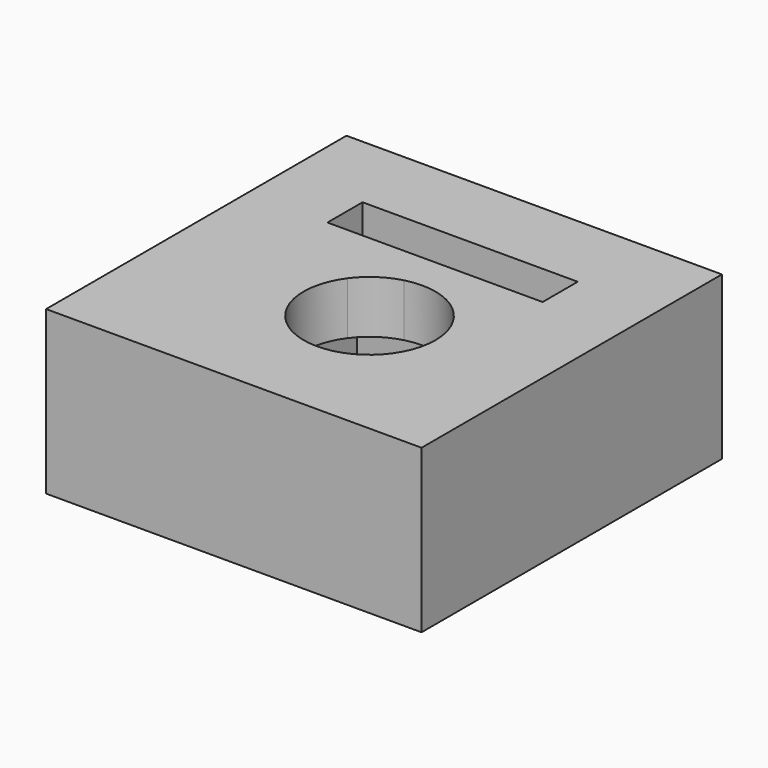
from build123d import *

# Parameters (mm, degrees)
F1_DEPTH = 5
F2_DEPTH = 2.4


with BuildPart() as f1:
    # F0 (on Top) → F1 (new body)
    with BuildSketch(Plane.XY):
        with BuildLine():
            Line((-8.2229121849, -7), (8.8770878151, -7))
            Line((8.8770878151, -7), (8.8770878151, -4.5))
            Line((8.8770878151, -4.5), (8.8770878151, 1.55))
            Line((8.8770878151, 1.55), (6.4270878151, 1.55))
            Line((6.4270878151, 1.55), (6.4270878151, -4.55))
            Line((6.4270878151, -4.55), (3.9714117296, -4.55))
            ThreePointArc((3.9714117296, -4.55), (1.0867994279, -5.4234526619), (-1.7978128738, -4.55))
            Line((-1.7978128738, -4.55), (-5.7729121849, -4.55))
            Line((-5.7729121849, -4.55), (-5.7729121849, 1.55))
            Line((-5.7729121849, 1.55), (-8.2229121849, 1.55))
            Line((-8.2229121849, 1.55), (-8.2229121849, -7))
        make_face()
        Polygon((-8.2229121849, 10.1), (-8.2229121849, 1.55), (-5.7729121849, 1.55), (-5.7729121849, 7.65), (6.4270878151, 7.65), (6.4270878151, 1.55), (8.8770878151, 1.55), (8.8770878151, 7.6), (8.8770878151, 10.1), align=None)
        with BuildLine():
            Line((3.9714117296, -4.55), (-1.7978128738, -4.55))
            ThreePointArc((-1.7978128738, -4.55), (1.0867994279, -5.4234526619), (3.9714117296, -4.55))
        make_face()
    extrude(amount=-F1_DEPTH)

    # F0 (on Top) → F2 (join)
    with BuildSketch(Plane.XY):
        Polygon((-8.2229121849, 10.1), (-8.2229121849, 1.55), (-5.7729121849, 1.55), (-5.7729121849, 7.65), (6.4270878151, 7.65), (6.4270878151, 1.55), (8.8770878151, 1.55), (8.8770878151, 7.6), (8.8770878151, 10.1), align=None)
        with BuildLine():
            Line((-5.7729121849, 7.65), (-5.7729121849, 1.55))
            Line((-5.7729121849, 1.55), (-3.8014380516, 1.55))
            ThreePointArc((-3.8014380516, 1.55), (-2.776349623, 3.2573632497), (-1.1846618734, 4.4542031139))
            Line((-1.1846618734, 4.4542031139), (-4.5729121849, 4.4542031139))
            Line((-4.5729121849, 4.4542031139), (-4.5729121849, 6.4542031139))
            Line((-4.5729121849, 6.4542031139), (5.2270878151, 6.4542031139))
            Line((5.2270878151, 6.4542031139), (5.2270878151, 4.4542031139))
            Line((5.2270878151, 4.4542031139), (3.3582607291, 4.4542031139))
            ThreePointArc((3.3582607291, 4.4542031139), (4.9499484788, 3.2573632497), (5.9750369074, 1.55))
            Line((5.9750369074, 1.55), (6.4270878151, 1.55))
            Line((6.4270878151, 1.55), (6.4270878151, 7.65))
            Line((6.4270878151, 7.65), (-5.7729121849, 7.65))
        make_face()
        with BuildLine():
            ThreePointArc((-1.1846618734, 4.4542031139), (-2.776349623, 3.2573632497), (-3.8014380516, 1.55))
            Line((-3.8014380516, 1.55), (-1.3328835382, 1.55))
            ThreePointArc((-1.3328835382, 1.55), (-0.6001096537, 2.2573411124), (0.3270878151, 2.678759988))
            Line((0.3270878151, 2.678759988), (0.3270878151, 4.4542031139))
            Line((0.3270878151, 4.4542031139), (-1.1846618734, 4.4542031139))
        make_face()
        with BuildLine():
            Line((3.5064823939, 1.55), (5.9750369074, 1.55))
            ThreePointArc((5.9750369074, 1.55), (4.9499484788, 3.2573632497), (3.3582607291, 4.4542031139))
            Line((3.3582607291, 4.4542031139), (0.3270878151, 4.4542031139))
            Line((0.3270878151, 4.4542031139), (0.3270878151, 2.678759988))
            ThreePointArc((0.3270878151, 2.678759988), (2.0904931068, 2.6036658356), (3.5064823939, 1.55))
        make_face()
        with BuildLine():
            Line((-1.3328835382, 1.55), (-3.8014380516, 1.55))
            ThreePointArc((-3.8014380516, 1.55), (-3.8535242893, -1.8461669219), (-1.7978128738, -4.55))
            Line((-1.7978128738, -4.55), (3.9714117296, -4.55))
            ThreePointArc((3.9714117296, -4.55), (5.6715559082, -2.6770231246), (6.2867994279, -0.2234526619))
            ThreePointArc((6.2867994279, -0.2234526619), (6.2082657654, 0.6768709207), (5.9750369074, 1.55))
            Line((5.9750369074, 1.55), (3.5064823939, 1.55))
            ThreePointArc((3.5064823939, 1.55), (3.938031521, 0.7095401307), (4.0867994279, -0.2234526619))
            ThreePointArc((4.0867994279, -0.2234526619), (0.1538066353, -3.074684755), (-1.3328835382, 1.55))
        make_face()
        with BuildLine():
            Line((-3.8014380516, 1.55), (-5.7729121849, 1.55))
            Line((-5.7729121849, 1.55), (-5.7729121849, -4.55))
            Line((-5.7729121849, -4.55), (-1.7978128738, -4.55))
            ThreePointArc((-1.7978128738, -4.55), (-3.8535242893, -1.8461669219), (-3.8014380516, 1.55))
        make_face()
        with BuildLine():
            Line((-8.2229121849, -7), (8.8770878151, -7))
            Line((8.8770878151, -7), (8.8770878151, -4.5))
            Line((8.8770878151, -4.5), (8.8770878151, 1.55))
            Line((8.8770878151, 1.55), (6.4270878151, 1.55))
            Line((6.4270878151, 1.55), (6.4270878151, -4.55))
            Line((6.4270878151, -4.55), (3.9714117296, -4.55))
            ThreePointArc((3.9714117296, -4.55), (1.0867994279, -5.4234526619), (-1.7978128738, -4.55))
            Line((-1.7978128738, -4.55), (-5.7729121849, -4.55))
            Line((-5.7729121849, -4.55), (-5.7729121849, 1.55))
            Line((-5.7729121849, 1.55), (-8.2229121849, 1.55))
            Line((-8.2229121849, 1.55), (-8.2229121849, -7))
        make_face()
        with BuildLine():
            Line((3.9714117296, -4.55), (-1.7978128738, -4.55))
            ThreePointArc((-1.7978128738, -4.55), (1.0867994279, -5.4234526619), (3.9714117296, -4.55))
        make_face()
        with BuildLine():
            Line((6.4270878151, -4.55), (6.4270878151, 1.55))
            Line((6.4270878151, 1.55), (5.9750369074, 1.55))
            ThreePointArc((5.9750369074, 1.55), (6.2082657654, 0.6768709207), (6.2867994279, -0.2234526619))
            ThreePointArc((6.2867994279, -0.2234526619), (5.6715559082, -2.6770231246), (3.9714117296, -4.55))
            Line((3.9714117296, -4.55), (6.4270878151, -4.55))
        make_face()
    extrude(amount=F2_DEPTH)


solid = f1.part
